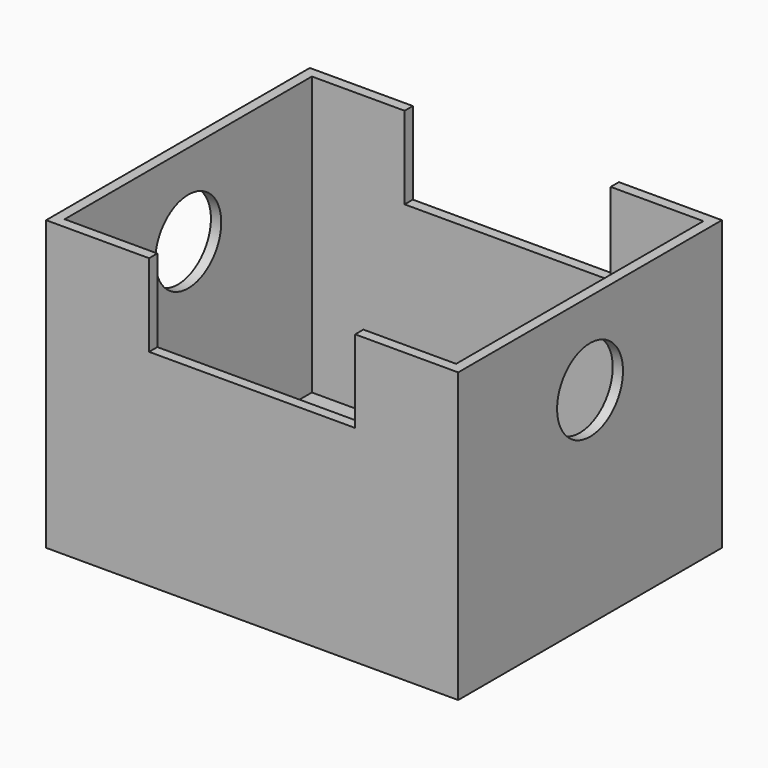
from build123d import *

# Parameters (mm, degrees)
F0_W     = 100
F0_H     = 80
F1_DEPTH = 70
F2_T     = -2.5
F3_W     = 50
F3_H     = 20
F4_DEPTH = 80.001
F5_R     = 10
F6_DEPTH = 100.001


with BuildPart() as f1:
    # F0 (on Top) → F1 (new body)
    with BuildSketch(Plane.XY):
        Rectangle(F0_W, F0_H)
    extrude(amount=F1_DEPTH)

    # F2
    f2_openings = [f1.faces().sort_by_distance(p)[0] for p in [
        (0, 0, 70),
    ]]
    offset(amount=F2_T, openings=f2_openings)

    # F3 (on face) → F4 (cut, through all)
    with BuildSketch(Plane.XZ.offset(40)):
        with Locations((0, 60)):
            Rectangle(F3_W, F3_H)
    extrude(amount=-F4_DEPTH, mode=Mode.SUBTRACT)

    # F5 (on face) → F6 (cut, through all)
    with BuildSketch(Plane(origin=(-50, 0, 0), x_dir=(0, -1, 0), z_dir=(-1, 0, 0))):
        with Locations((0, 50)):
            Circle(F5_R)
    extrude(amount=-F6_DEPTH, mode=Mode.SUBTRACT)


solid = f1.part
